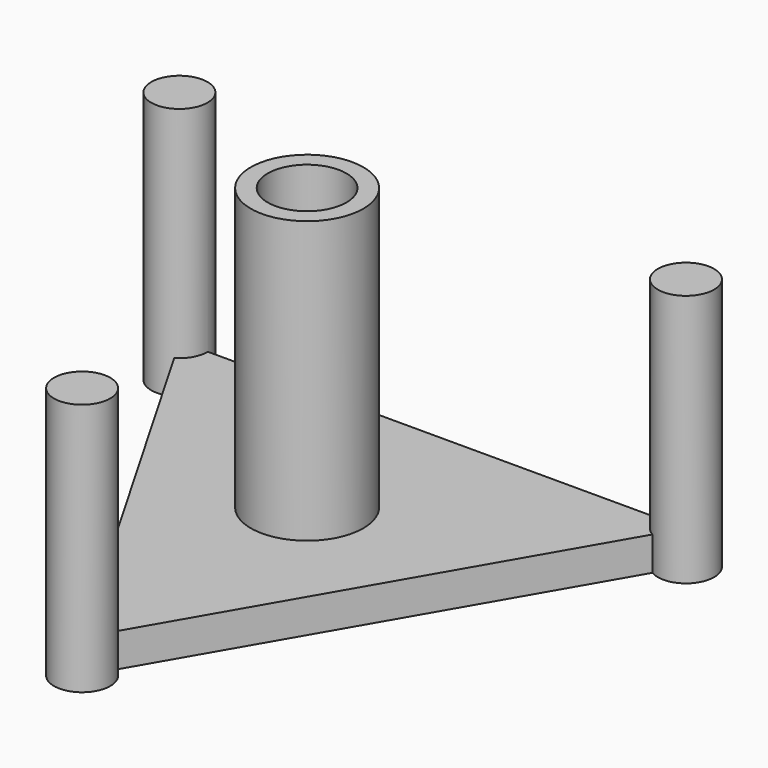
from build123d import *

# Parameters (mm, degrees)
F1_DEPTH = 7.62
F2_R     = 12.7
F3_DEPTH = 63.5
F4_R     = 8.89
F5_DEPTH = 71.121
F6_R     = 6.35
F7_DEPTH = 57.15


with BuildPart() as f1:
    # F0 (on Top) → F1 (new body)
    with BuildSketch(Plane.XY):
        Polygon((-57.15, 50.472703), (0, -48.514001), (57.15, 50.472703), align=None)
    extrude(amount=F1_DEPTH)

    # F2 (on face) → F3 (join)
    with BuildSketch(Plane.XY.offset(7.62)):
        with Locations((0, 14.985999)):
            Circle(F2_R)
    extrude(amount=F3_DEPTH)

    # F4 (on Top) → F5 (cut, through all)
    with BuildSketch(Plane.XY):
        with Locations((0, 14.985999)):
            Circle(F4_R)
    extrude(amount=F5_DEPTH, mode=Mode.SUBTRACT)

    # F6 (on Top) → F7 (join)
    with BuildSketch(Plane.XY):
        with Locations((0, -48.499294)):
            Circle(F6_R)
        with Locations((-57.143047, 50.380189)):
            Circle(F6_R)
        with Locations((57.150319, 50.4466)):
            Circle(F6_R)
    extrude(amount=F7_DEPTH)


solid = f1.part
